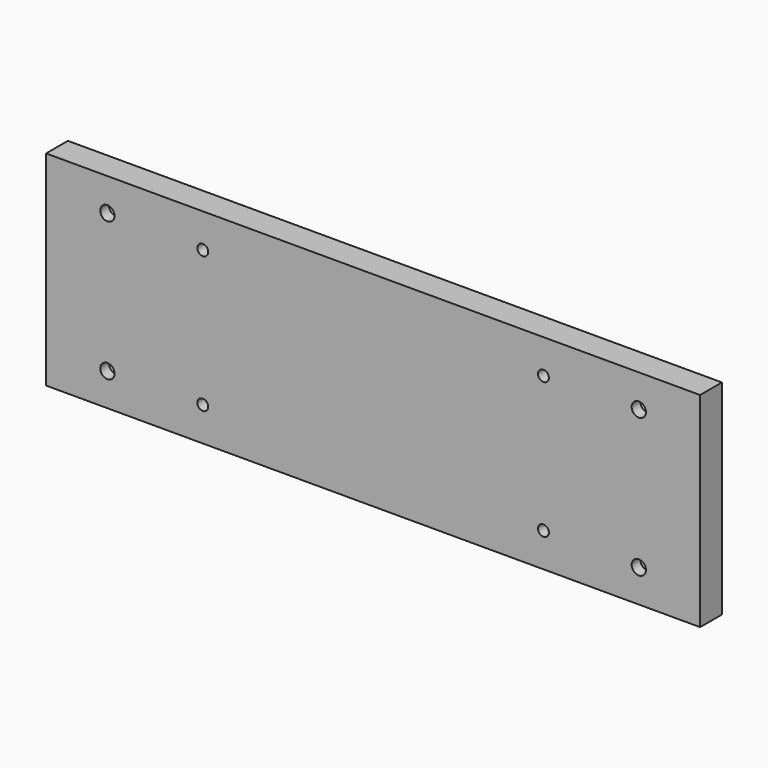
from build123d import *

# Parameters (mm, degrees)
F0_W           = 480
F0_H           = 150
F1_DEPTH       = 20
F2_D           = 10.5
F2_DEPTH       = 35
F2_CBORE_D     = 25
F2_CBORE_DEPTH = 12
F2_TIP         = 3.1545182499
F3_D           = 8
F3_DEPTH       = 35
F3_TIP         = 2.4034424761


with BuildPart() as f1:
    # F0 (on Front) → F1 (new body)
    with BuildSketch(Plane.XZ):
        with Locations((240, 75)):
            Rectangle(F0_W, F0_H)
    extrude(amount=F1_DEPTH)

    # F2
    with Locations(Plane(origin=(0, 0, 0), x_dir=(1, 0, 0), z_dir=(0, 1, 0))):
        with Locations((435, -126), (435, -24), (45, -126), (45, -24)):
            CounterBoreHole(F2_D / 2, F2_CBORE_D / 2, F2_CBORE_DEPTH, depth=F2_DEPTH)
            with Locations((0, 0, -(F2_DEPTH + F2_TIP / 2))):  # 118° drill point
                Cone(0, F2_D / 2, F2_TIP, mode=Mode.SUBTRACT)

    # F3
    with Locations(Plane(origin=(0, 0, 0), x_dir=(1, 0, 0), z_dir=(0, 1, 0))):
        with Locations((115, -125), (115, -25), (365, -25), (365, -125)):
            Hole(F3_D / 2, depth=F3_DEPTH)
            with Locations((0, 0, -(F3_DEPTH + F3_TIP / 2))):  # 118° drill point
                Cone(0, F3_D / 2, F3_TIP, mode=Mode.SUBTRACT)


solid = f1.part
